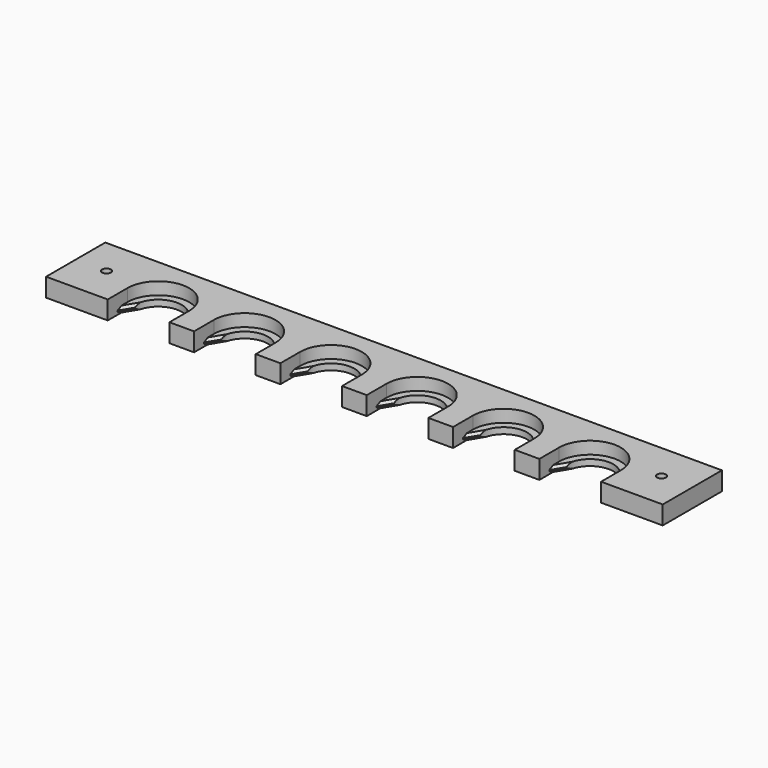
from build123d import *

# Parameters (mm, degrees)
F0_R     = 3.5
F1_DEPTH = 15
F3_DEPTH = 5
F4_SIZE  = 2


with BuildPart() as f1:
    # F0 (on Top) → F1 (new body)
    with BuildSketch(Plane.XY):
        with BuildLine():
            Line((-250, 30), (-250, -30))
            Line((-250, -30), (-200, -30))
            Line((-200, -30), (-200, -10))
            ThreePointArc((-200, -10), (-175, 15), (-150, -10))
            Line((-150, -10), (-150, -30))
            Line((-150, -30), (-130, -30))
            Line((-130, -30), (-130, -10))
            ThreePointArc((-130, -10), (-105, 15), (-80, -10))
            Line((-80, -10), (-80, -30))
            Line((-80, -30), (-60, -30))
            Line((-60, -30), (-60, -10))
            ThreePointArc((-60, -10), (-35, 15), (-10, -10))
            Line((-10, -10), (-10, -30))
            Line((-10, -30), (10, -30))
            Line((10, -30), (10, -10))
            ThreePointArc((10, -10), (35, 15), (60, -10))
            Line((60, -10), (60, -30))
            Line((60, -30), (80, -30))
            Line((80, -30), (80, -10))
            ThreePointArc((80, -10), (105, 15), (130, -10))
            Line((130, -10), (130, -30))
            Line((130, -30), (150, -30))
            Line((150, -30), (150, -10))
            ThreePointArc((150, -10), (175, 15), (200, -10))
            Line((200, -10), (200, -30))
            Line((200, -30), (250, -30))
            Line((250, -30), (250, 30))
            Line((250, 30), (-250, 30))
        make_face()
        with Locations((-225, 0)):
            Circle(F0_R, mode=Mode.SUBTRACT)
        with Locations((225, 0)):
            Circle(F0_R, mode=Mode.SUBTRACT)
    extrude(amount=F1_DEPTH)

    # F2 (on face) → F3 (join)
    with BuildSketch(Plane(origin=(0, 0, 0), x_dir=(1, 0, 0), z_dir=(0, 0, -1))):
        with BuildLine():
            Line((-200, 20), (-200, 10))
            ThreePointArc((-200, 10), (-175, -15), (-150, 10))
            Line((-150, 10), (-150, 20))
            Line((-150, 20), (-156, 10))
            ThreePointArc((-156, 10), (-175, -9), (-194, 10))
            Line((-194, 10), (-200, 20))
        make_face()
        with BuildLine():
            ThreePointArc((-86, 10), (-105, -9), (-124, 10))
            Line((-124, 10), (-130, 20))
            Line((-130, 20), (-130, 10))
            ThreePointArc((-130, 10), (-105, -15), (-80, 10))
            Line((-80, 10), (-80, 20))
            Line((-80, 20), (-86, 10))
        make_face()
        with BuildLine():
            ThreePointArc((-16, 10), (-35, -9), (-54, 10))
            Line((-54, 10), (-60, 20))
            Line((-60, 20), (-60, 10))
            ThreePointArc((-60, 10), (-35, -15), (-10, 10))
            Line((-10, 10), (-10, 20))
            Line((-10, 20), (-16, 10))
        make_face()
        with BuildLine():
            ThreePointArc((54, 10), (35, -9), (16, 10))
            Line((16, 10), (10, 20))
            Line((10, 20), (10, 10))
            ThreePointArc((10, 10), (35, -15), (60, 10))
            Line((60, 10), (60, 20))
            Line((60, 20), (54, 10))
        make_face()
        with BuildLine():
            ThreePointArc((124, 10), (105, -9), (86, 10))
            Line((86, 10), (80, 20))
            Line((80, 20), (80, 10))
            ThreePointArc((80, 10), (105, -15), (130, 10))
            Line((130, 10), (130, 20))
            Line((130, 20), (124, 10))
        make_face()
        with BuildLine():
            ThreePointArc((194, 10), (175, -9), (156, 10))
            Line((156, 10), (150, 20))
            Line((150, 20), (150, 10))
            ThreePointArc((150, 10), (175, -15), (200, 10))
            Line((200, 10), (200, 20))
            Line((200, 20), (194, 10))
        make_face()
    extrude(amount=-F3_DEPTH)

    # F4
    f4_edges = [f1.edges().sort_by_distance(p)[0] for p in [
        (-197, -15, 5),
        (-197, -15, 0),
        (-57, -15, 0),
        (-57, -15, 5),
        (-127, -15, 5),
        (-127, -15, 0),
        (-153, -15, 5),
        (-153, -15, 0),
        (-83, -15, 5),
        (-83, -15, 0),
        (-13, -15, 0),
        (-13, -15, 5),
        (57, -15, 5),
        (57, -15, 0),
        (127, -15, 5),
        (127, -15, 0),
        (197, -15, 5),
        (197, -15, 0),
        (13, -15, 5),
        (13, -15, 0),
        (83, -15, 5),
        (83, -15, 0),
        (153, -15, 5),
        (153, -15, 0),
    ]]
    chamfer(f4_edges, length=F4_SIZE)


solid = f1.part
